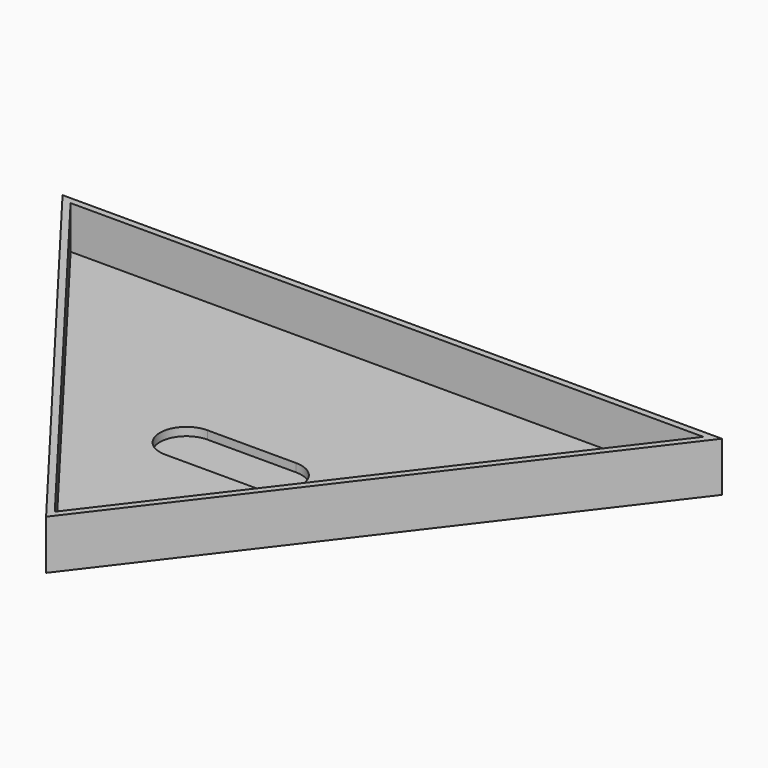
from build123d import *

# Parameters (mm, degrees)
F1_DEPTH = 3.175
F2_DEPTH = 19.05
F3_T     = -2.54


with BuildPart() as f1:
    # F0 (on Top) → F1 (new body)
    with BuildSketch(Plane.XY):
        with BuildLine():
            Line((17.0969952226, -7.4797603572), (-17.0969952226, -7.4797603572))
            ThreePointArc((-17.0969952226, -7.4797603572), (-29.7969952226, -20.1797603572), (-17.0969952226, -32.8797603572))
            Line((-17.0969952226, -32.8797603572), (17.0969952226, -32.8797603572))
            ThreePointArc((17.0969952226, -32.8797603572), (29.7969952226, -20.1797603572), (17.0969952226, -7.4797603572))
        make_face()
    extrude(amount=-F1_DEPTH)

    # F0 (on Top) + F1_face (on face) → F2 (join)
    with BuildSketch(Plane.XY):
        Polygon((127, 57.6001799476), (-127, 57.6001799476), (0, -109.0797603572), align=None)
        with BuildLine():
            ThreePointArc((-17.0969952226, -32.8797603572), (-29.7969952226, -20.1797603572), (-17.0969952226, -7.4797603572))
            Line((-17.0969952226, -7.4797603572), (17.0969952226, -7.4797603572))
            ThreePointArc((17.0969952226, -7.4797603572), (29.7969952226, -20.1797603572), (17.0969952226, -32.8797603572))
            Line((17.0969952226, -32.8797603572), (-17.0969952226, -32.8797603572))
        make_face(mode=Mode.SUBTRACT)
    with BuildSketch(Plane(origin=(0, -20.1797603572, 0), x_dir=(1, 0, 0), z_dir=(0, 0, 1))):
        with BuildLine():
            ThreePointArc((17.0969952226, -12.7), (29.7969952226, 0), (17.0969952226, 12.7))
            Line((17.0969952226, 12.7), (-17.0969952226, 12.7))
            ThreePointArc((-17.0969952226, 12.7), (-29.7969952226, 0), (-17.0969952226, -12.7))
            Line((-17.0969952226, -12.7), (17.0969952226, -12.7))
        make_face()
    extrude(amount=F2_DEPTH)

    # F3
    f3_openings = [f1.faces().sort_by_distance(p)[0] for p in [
        (0, 2.0402, 19.05),
    ]]
    offset(amount=F3_T, openings=f3_openings, kind=Kind.INTERSECTION)


solid = f1.part
